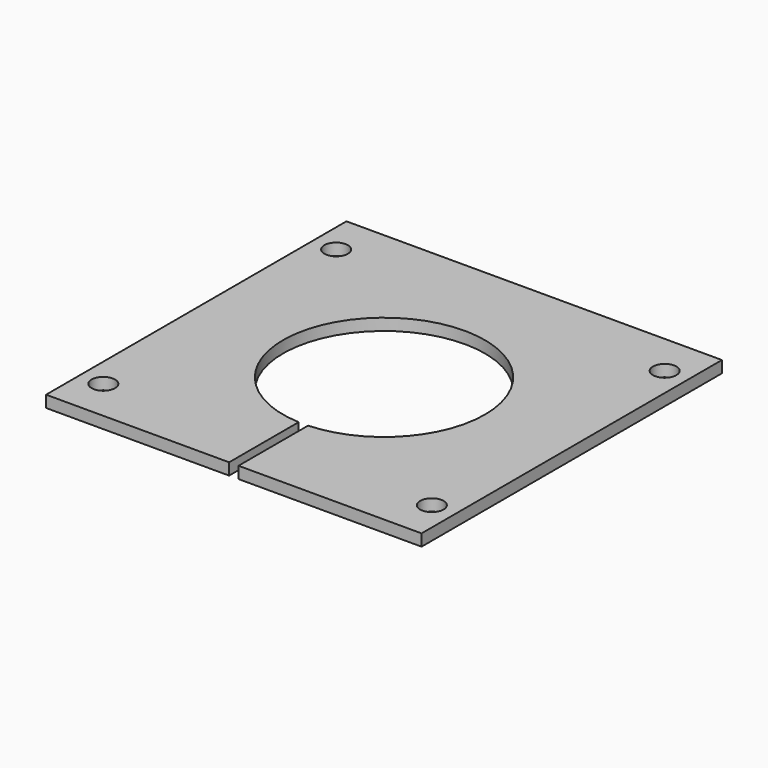
from build123d import *

# Parameters (mm, degrees)
F0_R     = 2.5
F1_DEPTH = 1.25


with BuildPart() as f1:
    # F0 (on Top) → F1 (new body, symmetric)
    with BuildSketch(Plane.XY):
        with BuildLine():
            Line((40, -40), (40, 40))
            Line((40, 40), (-40, 40))
            Line((-40, 40), (-40, -40))
            Line((-40, -40), (-1, -40))
            Line((-1, -40), (-1, -21.5))
            Line((-1, -21.5), (-1, -21.476732))
            ThreePointArc((-1, -21.476732), (-14.845033, 15.552331), (21.5, 0))
            ThreePointArc((21.5, 0), (15.552331, -14.845033), (1, -21.476732))
            Line((1, -21.476732), (1, -21.5))
            Line((1, -21.5), (1, -40))
            Line((1, -40), (40, -40))
        make_face()
        with Locations((-35, -31)):
            Circle(F0_R, mode=Mode.SUBTRACT)
        with Locations((35, -31)):
            Circle(F0_R, mode=Mode.SUBTRACT)
        with Locations((-35, 31)):
            Circle(F0_R, mode=Mode.SUBTRACT)
        with Locations((35, 31)):
            Circle(F0_R, mode=Mode.SUBTRACT)
    extrude(amount=F1_DEPTH, both=True)


solid = f1.part
